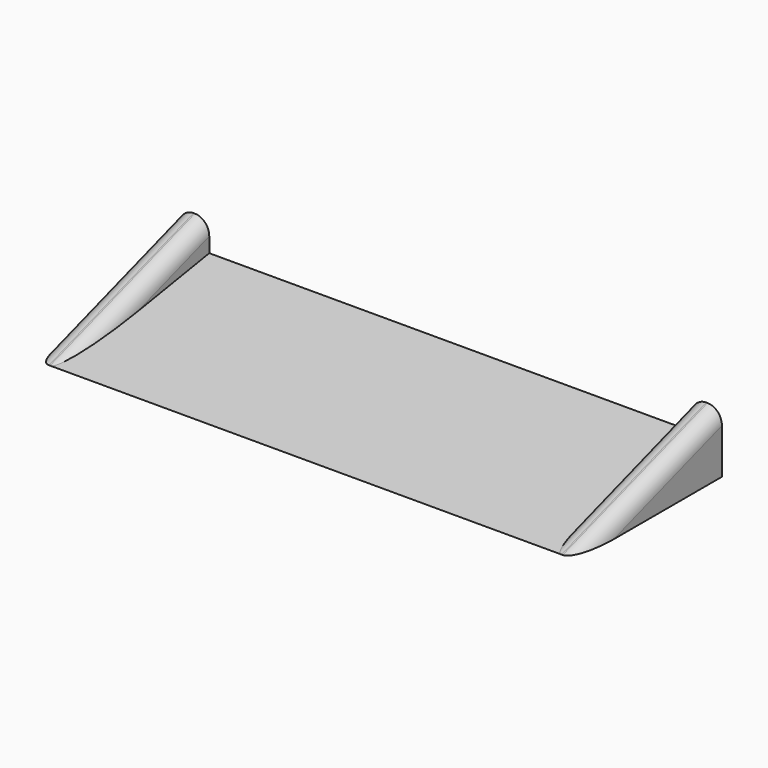
from build123d import *

# Parameters (mm, degrees)
F0_W     = 28.575
F0_H     = 9.525
F1_DEPTH = 1.5875
F3_DEPTH = 28.575
F5_DEPTH = 1.5875
F7_DEPTH = 1.5875
F8_R     = 0.762


with BuildPart() as f1:
    # F0 (on Top) → F1 (new body)
    with BuildSketch(Plane.XY):
        Rectangle(F0_W, F0_H)
    extrude(amount=F1_DEPTH)

    # F2 (on face) → F3 (cut, through all)
    with BuildSketch(Plane(origin=(-14.2875, 0, 0), x_dir=(0, -1, 0), z_dir=(-1, 0, 0))):
        Polygon((4.7625, 1.5875), (-4.7625, 1.5875), (4.7625, 0), align=None)
    extrude(amount=-F3_DEPTH, mode=Mode.SUBTRACT)

    # F4 (on face) → F5 (join)
    with BuildSketch(Plane(origin=(-14.2875, 0, 0), x_dir=(0, -1, 0), z_dir=(-1, 0, 0))):
        Polygon((-4.7625, 3.175), (-4.7625, 0), (4.7625, 0), align=None)
    extrude(amount=-F5_DEPTH)

    # F6 (on face) → F7 (join)
    with BuildSketch(Plane.YZ.offset(14.2875)):
        Polygon((-4.7625, 0), (4.7625, 0), (4.7625, 3.175), align=None)
    extrude(amount=-F7_DEPTH)

    # F8
    f8_edges = [f1.edges().sort_by_distance(p)[0] for p in [
        (-14.2875, 0, 1.5875),
        (-12.7, 0, 1.5875),
        (12.7, 0, 1.5875),
        (14.2875, 0, 1.5875),
    ]]
    fillet(f8_edges, radius=F8_R)


solid = f1.part
